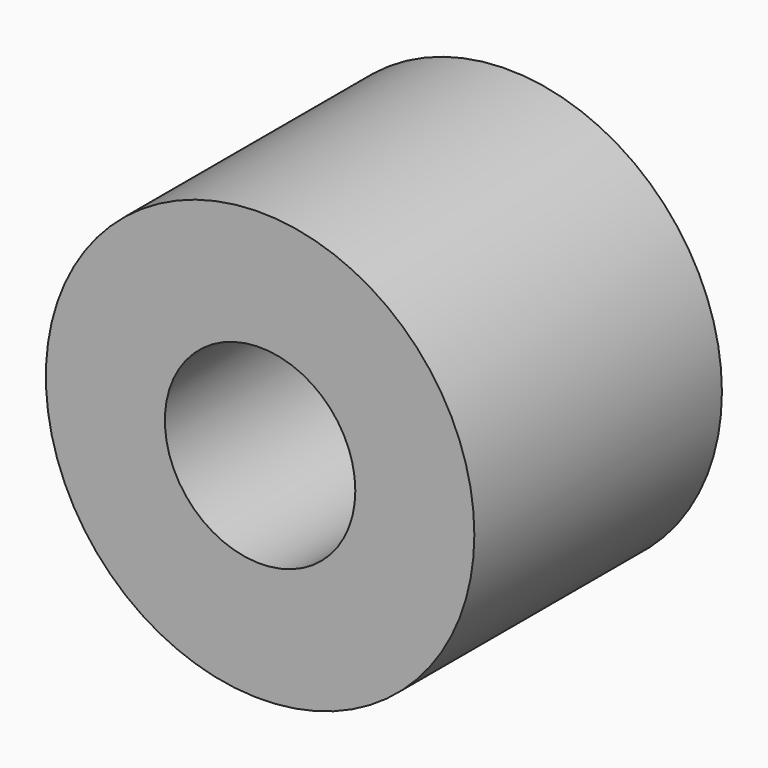
from build123d import *

# Parameters (mm, degrees)
CYLINDER176_R          = 0.4
CYLINDER176_DEPTH      = 1.3
CYLINDER177_R          = 0.9
CYLINDER177_DEPTH      = 1.3
CUT118_PLACEMENT_ANGLE = 90


with BuildPart() as cylinder176:
    # Cylinder176 → Cylinder176 (new body)
    with BuildSketch(Plane.XY):
        Circle(CYLINDER176_R)
    extrude(amount=CYLINDER176_DEPTH)


with BuildPart() as contact003:
    # Cylinder177 → Cylinder177 (new body)
    with BuildSketch(Plane.XY):
        Circle(CYLINDER177_R)
    extrude(amount=CYLINDER177_DEPTH)

    # Cut118: cut Cylinder176
    add(cylinder176.part, mode=Mode.SUBTRACT)


with BuildPart() as contact003_1:
    # Cut118 placement: moved
    add(contact003.part.moved(Location((-14.62, 1.3, -17))).rotate(Axis((-14.62, 1.3, -17), (1, 0, 0)), CUT118_PLACEMENT_ANGLE))


solid = contact003_1.part
